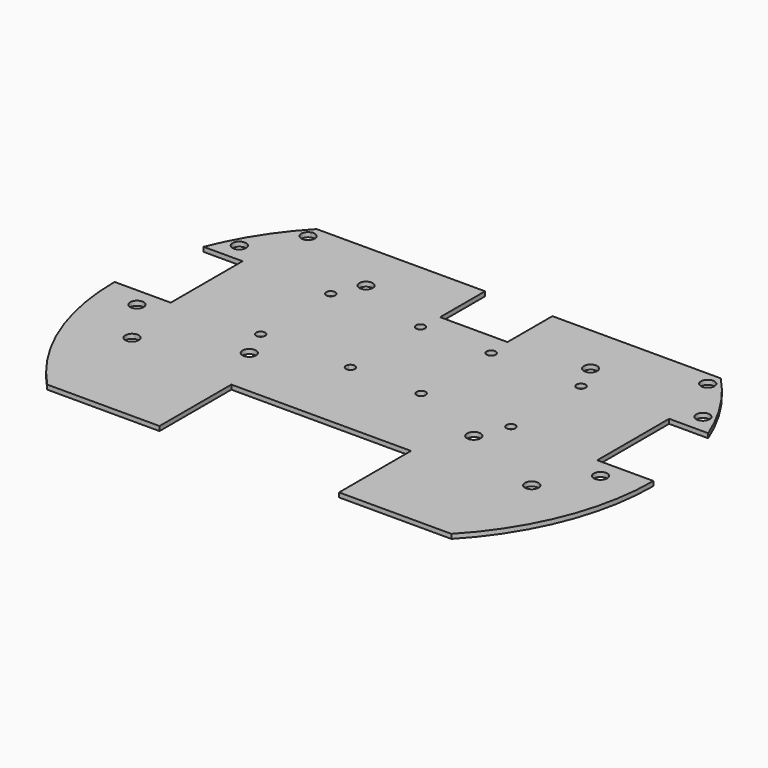
from build123d import *

# Parameters (mm, degrees)
F0_R     = 3
F0_R_2   = 2
F1_DEPTH = 2


with BuildPart() as f1:
    # F0 (on Top) → F1 (new body)
    with BuildSketch(Plane.XY):
        with BuildLine():
            Line((-15, 78.9111120323), (-15, 103.9111120323))
            Line((-15, 103.9111120323), (-90, 103.9111120323))
            Line((-90, 103.9111120323), (-90, 100.739539157))
            ThreePointArc((-90, 100.739539157), (-87.2679491924, 100.3606017751), (-86, 97.9111120323))
            ThreePointArc((-86, 97.9111120323), (-87.2679491924, 95.4616222895), (-90, 95.0826849075))
            Line((-90, 95.0826849075), (-90, 2.739539157))
            ThreePointArc((-90, 2.739539157), (-87.2679491924, 2.3606017751), (-86, -0.0888879677))
            ThreePointArc((-86, -0.0888879677), (-87.2679491924, -2.5383777105), (-90, -2.9173150925))
            Line((-90, -2.9173150925), (-90, -46.0888879677))
            Line((-90, -46.0888879677), (-40, -46.0888879677))
            Line((-40, -46.0888879677), (-40, -6.0888879677))
            Line((-40, -6.0888879677), (0, -6.0888879677))
            Line((0, -6.0888879677), (0, 78.9111120323))
            Line((0, 78.9111120323), (-15, 78.9111120323))
        make_face()
        with Locations((-50, 16.4111120323)):
            Circle(F0_R, mode=Mode.SUBTRACT)
        with Locations((-55.75, 29.9111120323)):
            Circle(F0_R_2, mode=Mode.SUBTRACT)
        with BuildLine():
            Line((-50.5, 66.9111120323), (-15.7500000193, 66.9111120323))
            Line((-15.7500000193, 66.9111120323), (-4.7, 66.9111120323))
            Line((-4.7, 66.9111120323), (-4.7, 30.9111120323))
            Line((-4.7, 30.9111120323), (-14.0179491924, 30.9111120323))
            ThreePointArc((-14.0179491924, 30.9111120323), (-13.8181483474, 30.4287501225), (-13.75, 29.9111120323))
            ThreePointArc((-13.75, 29.9111120323), (-16.2676380902, 27.9792603797), (-17.4820508076, 30.9111120323))
            Line((-17.4820508076, 30.9111120323), (-50.5, 30.9111120323))
            Line((-50.5, 30.9111120323), (-50.5, 66.9111120323))
        make_face(mode=Mode.SUBTRACT)
        with Locations((-55.75, 68.9111120323)):
            Circle(F0_R_2, mode=Mode.SUBTRACT)
        with Locations((-50, 81.4111120323)):
            Circle(F0_R, mode=Mode.SUBTRACT)
        with BuildLine():
            ThreePointArc((-15.7500000193, 66.9111120323), (-17.1642135555, 70.3253256015), (-13.75, 68.9111120323))
            ThreePointArc((-13.75, 68.9111120323), (-14.3357864445, 67.4968984631), (-15.7500000193, 66.9111120323))
        make_face(mode=Mode.SUBTRACT)
        with BuildLine():
            Line((15, 78.9111120323), (0, 78.9111120323))
            Line((0, 78.9111120323), (0, -6.0888879677))
            Line((0, -6.0888879677), (40, -6.0888879677))
            Line((40, -6.0888879677), (40, -46.0888879677))
            Line((40, -46.0888879677), (90, -46.0888879677))
            Line((90, -46.0888879677), (90, -2.9173150925))
            ThreePointArc((90, -2.9173150925), (86, -0.0888879677), (90, 2.739539157))
            Line((90, 2.739539157), (90, 95.0826849075))
            ThreePointArc((90, 95.0826849075), (86, 97.9111120323), (90, 100.739539157))
            Line((90, 100.739539157), (90, 103.9111120323))
            Line((90, 103.9111120323), (15, 103.9111120323))
            Line((15, 103.9111120323), (15, 78.9111120323))
        make_face()
        with Locations((50, 16.4111120323)):
            Circle(F0_R, mode=Mode.SUBTRACT)
        with Locations((15.75, 29.9111120323)):
            Circle(F0_R_2, mode=Mode.SUBTRACT)
        with Locations((55.75, 29.9111120323)):
            Circle(F0_R_2, mode=Mode.SUBTRACT)
        with Locations((15.75, 68.9111120323)):
            Circle(F0_R_2, mode=Mode.SUBTRACT)
        with Locations((55.75, 68.9111120323)):
            Circle(F0_R_2, mode=Mode.SUBTRACT)
        with Locations((50, 81.4111120323)):
            Circle(F0_R, mode=Mode.SUBTRACT)
        with BuildLine():
            Line((-15, 78.9111120323), (-15, 103.9111120323))
            Line((-15, 103.9111120323), (-90, 103.9111120323))
            Line((-90, 103.9111120323), (-90, 100.739539157))
            ThreePointArc((-90, 100.739539157), (-87.2679491924, 100.3606017751), (-86, 97.9111120323))
            ThreePointArc((-86, 97.9111120323), (-87.2679491924, 95.4616222895), (-90, 95.0826849075))
            Line((-90, 95.0826849075), (-90, 2.739539157))
            ThreePointArc((-90, 2.739539157), (-87.2679491924, 2.3606017751), (-86, -0.0888879677))
            ThreePointArc((-86, -0.0888879677), (-87.2679491924, -2.5383777105), (-90, -2.9173150925))
            Line((-90, -2.9173150925), (-90, -46.0888879677))
            Line((-90, -46.0888879677), (-40, -46.0888879677))
            Line((-40, -46.0888879677), (-40, -6.0888879677))
            Line((-40, -6.0888879677), (0, -6.0888879677))
            Line((0, -6.0888879677), (0, 78.9111120323))
            Line((0, 78.9111120323), (-15, 78.9111120323))
        make_face()
        with Locations((-50, 16.4111120323)):
            Circle(F0_R, mode=Mode.SUBTRACT)
        with Locations((-55.75, 29.9111120323)):
            Circle(F0_R_2, mode=Mode.SUBTRACT)
        with BuildLine():
            Line((-50.5, 66.9111120323), (-15.7500000193, 66.9111120323))
            Line((-15.7500000193, 66.9111120323), (-4.7, 66.9111120323))
            Line((-4.7, 66.9111120323), (-4.7, 30.9111120323))
            Line((-4.7, 30.9111120323), (-14.0179491924, 30.9111120323))
            ThreePointArc((-14.0179491924, 30.9111120323), (-13.8181483474, 30.4287501225), (-13.75, 29.9111120323))
            ThreePointArc((-13.75, 29.9111120323), (-16.2676380902, 27.9792603797), (-17.4820508076, 30.9111120323))
            Line((-17.4820508076, 30.9111120323), (-50.5, 30.9111120323))
            Line((-50.5, 30.9111120323), (-50.5, 66.9111120323))
        make_face(mode=Mode.SUBTRACT)
        with Locations((-55.75, 68.9111120323)):
            Circle(F0_R_2, mode=Mode.SUBTRACT)
        with Locations((-50, 81.4111120323)):
            Circle(F0_R, mode=Mode.SUBTRACT)
        with BuildLine():
            ThreePointArc((-15.7500000193, 66.9111120323), (-17.1642135555, 70.3253256015), (-13.75, 68.9111120323))
            ThreePointArc((-13.75, 68.9111120323), (-14.3357864445, 67.4968984631), (-15.7500000193, 66.9111120323))
        make_face(mode=Mode.SUBTRACT)
        with BuildLine():
            Line((-15, 78.9111120323), (-15, 103.9111120323))
            Line((-15, 103.9111120323), (-90, 103.9111120323))
            Line((-90, 103.9111120323), (-90, 100.739539157))
            ThreePointArc((-90, 100.739539157), (-87.2679491924, 100.3606017751), (-86, 97.9111120323))
            ThreePointArc((-86, 97.9111120323), (-87.2679491924, 95.4616222895), (-90, 95.0826849075))
            Line((-90, 95.0826849075), (-90, 2.739539157))
            ThreePointArc((-90, 2.739539157), (-87.2679491924, 2.3606017751), (-86, -0.0888879677))
            ThreePointArc((-86, -0.0888879677), (-87.2679491924, -2.5383777105), (-90, -2.9173150925))
            Line((-90, -2.9173150925), (-90, -46.0888879677))
            Line((-90, -46.0888879677), (-40, -46.0888879677))
            Line((-40, -46.0888879677), (-40, -6.0888879677))
            Line((-40, -6.0888879677), (0, -6.0888879677))
            Line((0, -6.0888879677), (0, 78.9111120323))
            Line((0, 78.9111120323), (-15, 78.9111120323))
        make_face()
        with Locations((-50, 16.4111120323)):
            Circle(F0_R, mode=Mode.SUBTRACT)
        with Locations((-55.75, 29.9111120323)):
            Circle(F0_R_2, mode=Mode.SUBTRACT)
        with BuildLine():
            Line((-50.5, 66.9111120323), (-15.7500000193, 66.9111120323))
            Line((-15.7500000193, 66.9111120323), (-4.7, 66.9111120323))
            Line((-4.7, 66.9111120323), (-4.7, 30.9111120323))
            Line((-4.7, 30.9111120323), (-14.0179491924, 30.9111120323))
            ThreePointArc((-14.0179491924, 30.9111120323), (-13.8181483474, 30.4287501225), (-13.75, 29.9111120323))
            ThreePointArc((-13.75, 29.9111120323), (-16.2676380902, 27.9792603797), (-17.4820508076, 30.9111120323))
            Line((-17.4820508076, 30.9111120323), (-50.5, 30.9111120323))
            Line((-50.5, 30.9111120323), (-50.5, 66.9111120323))
        make_face(mode=Mode.SUBTRACT)
        with Locations((-55.75, 68.9111120323)):
            Circle(F0_R_2, mode=Mode.SUBTRACT)
        with Locations((-50, 81.4111120323)):
            Circle(F0_R, mode=Mode.SUBTRACT)
        with BuildLine():
            ThreePointArc((-15.7500000193, 66.9111120323), (-17.1642135555, 70.3253256015), (-13.75, 68.9111120323))
            ThreePointArc((-13.75, 68.9111120323), (-14.3357864445, 67.4968984631), (-15.7500000193, 66.9111120323))
        make_face(mode=Mode.SUBTRACT)
        with BuildLine():
            Line((-15, 78.9111120323), (-15, 103.9111120323))
            Line((-15, 103.9111120323), (-90, 103.9111120323))
            Line((-90, 103.9111120323), (-90, 100.739539157))
            ThreePointArc((-90, 100.739539157), (-87.2679491924, 100.3606017751), (-86, 97.9111120323))
            ThreePointArc((-86, 97.9111120323), (-87.2679491924, 95.4616222895), (-90, 95.0826849075))
            Line((-90, 95.0826849075), (-90, 2.739539157))
            ThreePointArc((-90, 2.739539157), (-87.2679491924, 2.3606017751), (-86, -0.0888879677))
            ThreePointArc((-86, -0.0888879677), (-87.2679491924, -2.5383777105), (-90, -2.9173150925))
            Line((-90, -2.9173150925), (-90, -46.0888879677))
            Line((-90, -46.0888879677), (-40, -46.0888879677))
            Line((-40, -46.0888879677), (-40, -6.0888879677))
            Line((-40, -6.0888879677), (0, -6.0888879677))
            Line((0, -6.0888879677), (0, 78.9111120323))
            Line((0, 78.9111120323), (-15, 78.9111120323))
        make_face()
        with Locations((-50, 16.4111120323)):
            Circle(F0_R, mode=Mode.SUBTRACT)
        with Locations((-55.75, 29.9111120323)):
            Circle(F0_R_2, mode=Mode.SUBTRACT)
        with BuildLine():
            Line((-50.5, 66.9111120323), (-15.7500000193, 66.9111120323))
            Line((-15.7500000193, 66.9111120323), (-4.7, 66.9111120323))
            Line((-4.7, 66.9111120323), (-4.7, 30.9111120323))
            Line((-4.7, 30.9111120323), (-14.0179491924, 30.9111120323))
            ThreePointArc((-14.0179491924, 30.9111120323), (-13.8181483474, 30.4287501225), (-13.75, 29.9111120323))
            ThreePointArc((-13.75, 29.9111120323), (-16.2676380902, 27.9792603797), (-17.4820508076, 30.9111120323))
            Line((-17.4820508076, 30.9111120323), (-50.5, 30.9111120323))
            Line((-50.5, 30.9111120323), (-50.5, 66.9111120323))
        make_face(mode=Mode.SUBTRACT)
        with Locations((-55.75, 68.9111120323)):
            Circle(F0_R_2, mode=Mode.SUBTRACT)
        with Locations((-50, 81.4111120323)):
            Circle(F0_R, mode=Mode.SUBTRACT)
        with BuildLine():
            ThreePointArc((-15.7500000193, 66.9111120323), (-17.1642135555, 70.3253256015), (-13.75, 68.9111120323))
            ThreePointArc((-13.75, 68.9111120323), (-14.3357864445, 67.4968984631), (-15.7500000193, 66.9111120323))
        make_face(mode=Mode.SUBTRACT)
        with BuildLine():
            ThreePointArc((112.3764678509, 68.9111120323), (102.8749743336, 87.4894918184), (90, 103.9111120323))
            Line((90, 103.9111120323), (90, 100.739539157))
            ThreePointArc((90, 100.739539157), (91.4494897428, 99.6431628398), (92, 97.9111120323))
            ThreePointArc((92, 97.9111120323), (91.4494897428, 96.1790612247), (90, 95.0826849075))
            Line((90, 95.0826849075), (90, 2.739539157))
            ThreePointArc((90, 2.739539157), (91.4494897428, 1.6431628398), (92, -0.0888879677))
            ThreePointArc((92, -0.0888879677), (91.4494897428, -1.8209387753), (90, -2.9173150925))
            Line((90, -2.9173150925), (90, -46.0888879677))
            ThreePointArc((90, -46.0888879677), (112.2218401338, -11.4776240212), (120, 28.9111120323))
            Line((120, 28.9111120323), (95, 28.9111120323))
            Line((95, 28.9111120323), (95, 68.9111120323))
            Line((95, 68.9111120323), (112.3764678509, 68.9111120323))
        make_face()
        with Locations((103.25, 20.4111120323)):
            Circle(F0_R, mode=Mode.SUBTRACT)
        with Locations((103.25, 77.4111120323)):
            Circle(F0_R, mode=Mode.SUBTRACT)
        with BuildLine():
            Line((-90, 100.739539157), (-90, 103.9111120323))
            ThreePointArc((-90, 103.9111120323), (-102.8749743336, 87.4894918184), (-112.3764678509, 68.9111120323))
            Line((-112.3764678509, 68.9111120323), (-95, 68.9111120323))
            Line((-95, 68.9111120323), (-95, 28.9111120323))
            Line((-95, 28.9111120323), (-120, 28.9111120323))
            ThreePointArc((-120, 28.9111120323), (-112.2218401338, -11.4776240212), (-90, -46.0888879677))
            Line((-90, -46.0888879677), (-90, -2.9173150925))
            ThreePointArc((-90, -2.9173150925), (-92, -0.0888879677), (-90, 2.739539157))
            Line((-90, 2.739539157), (-90, 95.0826849075))
            ThreePointArc((-90, 95.0826849075), (-92, 97.9111120323), (-90, 100.739539157))
        make_face()
        with Locations((-103.25, 20.4111120323)):
            Circle(F0_R, mode=Mode.SUBTRACT)
        with Locations((-103.25, 77.4111120323)):
            Circle(F0_R, mode=Mode.SUBTRACT)
        with BuildLine():
            Line((-90, 100.739539157), (-90, 103.9111120323))
            ThreePointArc((-90, 103.9111120323), (-102.8749743336, 87.4894918184), (-112.3764678509, 68.9111120323))
            Line((-112.3764678509, 68.9111120323), (-95, 68.9111120323))
            Line((-95, 68.9111120323), (-95, 28.9111120323))
            Line((-95, 28.9111120323), (-120, 28.9111120323))
            ThreePointArc((-120, 28.9111120323), (-112.2218401338, -11.4776240212), (-90, -46.0888879677))
            Line((-90, -46.0888879677), (-90, -2.9173150925))
            ThreePointArc((-90, -2.9173150925), (-92, -0.0888879677), (-90, 2.739539157))
            Line((-90, 2.739539157), (-90, 95.0826849075))
            ThreePointArc((-90, 95.0826849075), (-92, 97.9111120323), (-90, 100.739539157))
        make_face()
        with Locations((-103.25, 20.4111120323)):
            Circle(F0_R, mode=Mode.SUBTRACT)
        with Locations((-103.25, 77.4111120323)):
            Circle(F0_R, mode=Mode.SUBTRACT)
        with BuildLine():
            Line((-4.7, 66.9111120323), (-15.7500000193, 66.9111120323))
            Line((-15.7500000193, 66.9111120323), (-50.5, 66.9111120323))
            Line((-50.5, 66.9111120323), (-50.5, 30.9111120323))
            Line((-50.5, 30.9111120323), (-17.4820508076, 30.9111120323))
            ThreePointArc((-17.4820508076, 30.9111120323), (-15.75, 31.9111120323), (-14.0179491924, 30.9111120323))
            Line((-14.0179491924, 30.9111120323), (-4.7, 30.9111120323))
            Line((-4.7, 30.9111120323), (-4.7, 66.9111120323))
        make_face()
    extrude(amount=F1_DEPTH)


solid = f1.part
